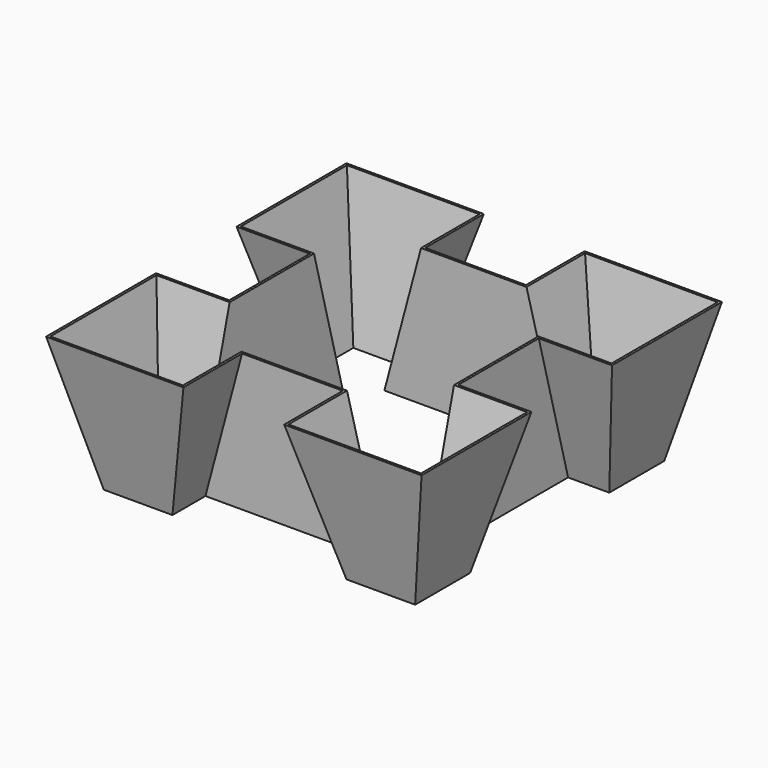
from build123d import *

# Parameters (mm, degrees)
F4_T = -2.5


with BuildPart() as f3:
    # F0 (on Top) → F3 section 0
    with BuildSketch(Plane.XY):
        Polygon((55, 125), (-55, 125), (-55, 205), (-205, 205), (-205, 55), (-125, 55), (-125, -55), (-205, -55), (-205, -205), (-55, -205), (-55, -125), (55, -125), (55, -205), (205, -205), (205, -55), (125, -55), (125, 55), (205, 55), (205, 205), (55, 205), align=None)
    # F2 (on offset) → F3 section 1
    with BuildSketch(Plane.XY.offset(-150)):
        Polygon((-95, -170), (-95, -125), (95, -125), (95, -170), (170, -170), (170, -95), (125, -95), (125, 95), (170, 95), (170, 170), (95, 170), (95, 125), (-95, 125), (-95, 170), (-170, 170), (-170, 95), (-125, 95), (-125, -95), (-170, -95), (-170, -170), align=None)
    loft()

    # F4
    f4_openings = [f3.faces().sort_by_distance(p)[0] for p in [
        (0, 0, 0),
        (0, 0, -150),
    ]]
    offset(amount=F4_T, openings=f4_openings, kind=Kind.INTERSECTION)


solid = f3.part
